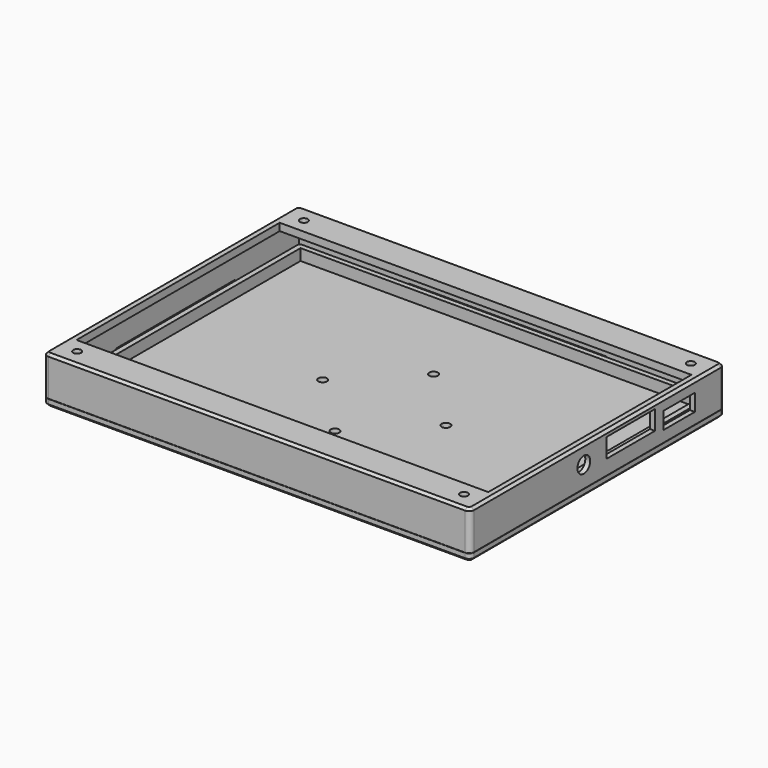
from build123d import *

# Parameters (mm, degrees)
SKETCH003_W                           = 173
SKETCH003_H                           = 129
SKETCH003_W_2                         = 169
SKETCH003_H_2                         = 125
PAD_DEPTH                             = 13
SKETCH004_W                           = 173
SKETCH004_H                           = 129
SKETCH004_R                           = 1.6
SKETCH004_W_2                         = 167
SKETCH004_H_2                         = 103
PAD001_DEPTH                          = 3
SKETCH005_R                           = 3.25
SKETCH005_W                           = 24.5
SKETCH005_H                           = 7.8
SKETCH005_W_2                         = 16
SKETCH005_H_2                         = 6.85
POCKET_DEPTH                          = 86.501
FILLET_R                              = 2
CHAMFER_SIZE                          = 1
PAD002_DEPTH                          = 40
PAD003_DEPTH                          = 30
FILLET003_R                           = 0.2
SKETCH008_W                           = 173
SKETCH008_H                           = 129
PAD004_DEPTH                          = 2.9
FILLET001_R                           = 2
CHAMFER001_SIZE                       = 1
SKETCH009_W                           = 169
SKETCH009_H                           = 124.76
SKETCH009_W_2                         = 162.8
SKETCH009_H_2                         = 118.56
PAD005_DEPTH                          = 4.6
FILLET002_R                           = 2
CHAMFER002_SIZE                       = 1
POCKET001_DEPTH                       = 40.24
POCKET002_DEPTH                       = 30.24
POCKET005_DEPTH                       = 447.863247
POCKET005_DEPTH_BACK                  = 431.863247
POCKET005_LINEARPATTERN_2_DEPTH       = 447.863247
POCKET005_LINEARPATTERN_2_DEPTH_BACK  = 431.863247
POCKET005_LINEARPATTERN_3_DEPTH       = 447.863247
POCKET005_LINEARPATTERN_3_DEPTH_BACK  = 431.863247
POCKET005_LINEARPATTERN_4_DEPTH       = 447.863247
POCKET005_LINEARPATTERN_4_DEPTH_BACK  = 431.863247
POCKET005_LINEARPATTERN_5_DEPTH       = 447.863247
POCKET005_LINEARPATTERN_5_DEPTH_BACK  = 431.863247
POCKET005_LINEARPATTERN_6_DEPTH       = 447.863247
POCKET005_LINEARPATTERN_6_DEPTH_BACK  = 431.863247
POCKET005_LINEARPATTERN_7_DEPTH       = 447.863247
POCKET005_LINEARPATTERN_7_DEPTH_BACK  = 431.863247
POCKET005_LINEARPATTERN_8_DEPTH       = 447.863247
POCKET005_LINEARPATTERN_8_DEPTH_BACK  = 431.863247
POCKET005_LINEARPATTERN_9_DEPTH       = 447.863247
POCKET005_LINEARPATTERN_9_DEPTH_BACK  = 431.863247
POCKET005_LINEARPATTERN_10_DEPTH      = 447.863247
POCKET005_LINEARPATTERN_10_DEPTH_BACK = 431.863247
POCKET005_LINEARPATTERN_11_DEPTH      = 447.863247
POCKET005_LINEARPATTERN_11_DEPTH_BACK = 431.863247
POCKET005_LINEARPATTERN_12_DEPTH      = 447.863247
POCKET005_LINEARPATTERN_12_DEPTH_BACK = 431.863247
LINEARPATTERN001_COUNT                = 15
LINEARPATTERN001_PITCH                = 7.695191
SKETCH019_R                           = 30.75
SKETCH019_R_2                         = 19.25
PAD006_DEPTH                          = 2.9
SKETCH020_R                           = 1.75
POCKET006_DEPTH                       = 7.501
SKETCH021_R                           = 1.75
POCKET007_DEPTH                       = 16.001


with BuildPart() as front:
    # Sketch003 → Pad (new body)
    with BuildSketch(Plane.XY):
        Rectangle(SKETCH003_W, SKETCH003_H)
        Rectangle(SKETCH003_W_2, SKETCH003_H_2, mode=Mode.SUBTRACT)
    extrude(amount=-PAD_DEPTH)

    # Sketch004 → Pad001 (join)
    with BuildSketch(Plane.XY):
        Rectangle(SKETCH004_W, SKETCH004_H)
        with Locations((-78.45, 57.48)):
            Circle(SKETCH004_R, mode=Mode.SUBTRACT)
        with Locations((78.45, 57.48)):
            Circle(SKETCH004_R, mode=Mode.SUBTRACT)
        with Locations((78.45, -57.48)):
            Circle(SKETCH004_R, mode=Mode.SUBTRACT)
        with Locations((-78.45, -57.48)):
            Circle(SKETCH004_R, mode=Mode.SUBTRACT)
        Rectangle(SKETCH004_W_2, SKETCH004_H_2, mode=Mode.SUBTRACT)
    extrude(amount=PAD001_DEPTH)

    # Sketch005 → Pocket (cut, through all)
    with BuildSketch(Plane.YZ):
        with Locations((-6.82, -4.4)):
            Circle(SKETCH005_R)
        with Locations((16.98, -3.1)):
            Rectangle(SKETCH005_W, SKETCH005_H)
        with Locations((41.48, -5.025)):
            Rectangle(SKETCH005_W_2, SKETCH005_H_2)
    extrude(amount=POCKET_DEPTH, mode=Mode.SUBTRACT)

    # Fillet
    fillet_edges = [front.edges().sort_by_distance(p)[0] for p in [
        (-86.5, -64.5, -5),
        (-86.5, 64.5, -5),
        (86.5, 64.5, -5),
        (86.5, -64.5, -5),
    ]]
    fillet(fillet_edges, radius=FILLET_R)

    # Chamfer
    chamfer_edges = [front.edges().sort_by_distance(p)[0] for p in [
        (0, -64.5, 3),
    ]]
    chamfer(chamfer_edges, length=CHAMFER_SIZE)

    # Sketch006 → Pad002 (join, symmetric)
    with BuildSketch(Plane.YZ):
        Polygon((62.5, -9), (62.5, -12), (61, -10.5), align=None)
        Polygon((-62.5, -9), (-62.5, -12), (-61, -10.5), align=None)
    extrude(amount=PAD002_DEPTH, both=True)

    # Sketch007 → Pad003 (join, symmetric)
    with BuildSketch(Plane.XZ):
        Polygon((-84.5, -9), (-84.5, -12), (-83, -10.5), align=None)
        Polygon((84.5, -9), (84.5, -12), (83, -10.5), align=None)
    extrude(amount=PAD003_DEPTH, both=True)

    # Fillet003
    fillet003_edges = [front.edges().sort_by_distance(p)[0] for p in [
        (83, 0, -10.5),
        (0, -61, -10.5),
        (-83, 0, -10.5),
        (0, 61, -10.5),
    ]]
    fillet(fillet003_edges, radius=FILLET003_R)


with BuildPart() as backbase:
    # Sketch008 → Pad004 (new body)
    with BuildSketch(Plane.XY.offset(-16)):
        Rectangle(SKETCH008_W, SKETCH008_H)
    extrude(amount=PAD004_DEPTH)

    # Fillet001
    fillet001_edges = [backbase.edges().sort_by_distance(p)[0] for p in [
        (-86.5, -64.5, -14.55),
        (86.5, -64.5, -14.55),
        (-86.5, 64.5, -14.55),
        (86.5, 64.5, -14.55),
    ]]
    fillet(fillet001_edges, radius=FILLET001_R)

    # Chamfer001
    chamfer001_edges = [backbase.edges().sort_by_distance(p)[0] for p in [
        (0, 64.5, -16),
    ]]
    chamfer(chamfer001_edges, length=CHAMFER001_SIZE)

    # Sketch009 → Pad005 (join)
    with BuildSketch(Plane.XY.offset(-13.1)):
        with Locations((0.12, 0)):
            Rectangle(SKETCH009_W, SKETCH009_H)
        with Locations((0.12, 0)):
            Rectangle(SKETCH009_W_2, SKETCH009_H_2, mode=Mode.SUBTRACT)
    extrude(amount=PAD005_DEPTH)

    # Fillet002
    fillet002_edges = [backbase.edges().sort_by_distance(p)[0] for p in [
        (84.62, 62.38, -10.8),
        (-84.38, 62.38, -10.8),
        (84.62, -62.38, -10.8),
        (-84.38, -62.38, -10.8),
    ]]
    fillet(fillet002_edges, radius=FILLET002_R)

    # Chamfer002
    chamfer002_edges = [backbase.edges().sort_by_distance(p)[0] for p in [
        (0.12, -62.38, -8.5),
    ]]
    chamfer(chamfer002_edges, length=CHAMFER002_SIZE)

    # Sketch010 → Pocket001 (cut, symmetric)
    with BuildSketch(Plane.YZ):
        Polygon((-62.38, -9), (-62.38, -12), (-60.88, -10.5), align=None)
        Polygon((62.38, -9), (62.38, -12), (60.88, -10.5), align=None)
    extrude(amount=POCKET001_DEPTH, both=True, mode=Mode.SUBTRACT)

    # Sketch011 → Pocket002 (cut, symmetric)
    with BuildSketch(Plane.XZ):
        Polygon((84.62, -9), (84.62, -12), (83.12, -10.5), align=None)
        Polygon((-84.38, -9), (-84.38, -12), (-82.88, -10.5), align=None)
    extrude(amount=POCKET002_DEPTH, both=True, mode=Mode.SUBTRACT)


with BuildPart() as obj1:
    # Body003 base: copy of BackBase
    add(backbase.part)

    # Sketch018 → Pocket005 (cut, two sides)
    with BuildSketch(Plane.XY) as pocket005_sk:
        Polygon((-72.768651, 55.790131), (-74.643651, 59.037727), (-78.393651, 59.037727), (-80.268651, 55.790131), (-78.393651, 52.542536), (-74.643651, 52.542536), align=None)
        Polygon((-67.97942, 48.694941), (-66.10442, 51.942536), (-67.97942, 55.190131), (-71.72942, 55.190131), (-73.60442, 51.942536), (-71.72942, 48.694941), align=None)
    pocket005 = extrude(amount=-POCKET005_DEPTH, mode=Mode.SUBTRACT) + extrude(pocket005_sk.sketch, amount=POCKET005_DEPTH_BACK, mode=Mode.SUBTRACT)

    # Sketch018 LinearPattern 2 → Pocket005 LinearPattern 2 (cut, two sides)
    with BuildSketch(Plane(origin=(13.328461, 0, 0), x_dir=(1, 0, 0), z_dir=(0, 0, 1))) as pocket005_linearpattern_2_sk:
        Polygon((-72.768651, 55.790131), (-74.643651, 59.037727), (-78.393651, 59.037727), (-80.268651, 55.790131), (-78.393651, 52.542536), (-74.643651, 52.542536), align=None)
        Polygon((-67.97942, 48.694941), (-66.10442, 51.942536), (-67.97942, 55.190131), (-71.72942, 55.190131), (-73.60442, 51.942536), (-71.72942, 48.694941), align=None)
    pocket005_linearpattern_2 = extrude(amount=-POCKET005_LINEARPATTERN_2_DEPTH, mode=Mode.SUBTRACT) + extrude(pocket005_linearpattern_2_sk.sketch, amount=POCKET005_LINEARPATTERN_2_DEPTH_BACK, mode=Mode.SUBTRACT)

    # Sketch018 LinearPattern 3 → Pocket005 LinearPattern 3 (cut, two sides)
    with BuildSketch(Plane(origin=(26.656922, 0, 0), x_dir=(1, 0, 0), z_dir=(0, 0, 1))) as pocket005_linearpattern_3_sk:
        Polygon((-72.768651, 55.790131), (-74.643651, 59.037727), (-78.393651, 59.037727), (-80.268651, 55.790131), (-78.393651, 52.542536), (-74.643651, 52.542536), align=None)
        Polygon((-67.97942, 48.694941), (-66.10442, 51.942536), (-67.97942, 55.190131), (-71.72942, 55.190131), (-73.60442, 51.942536), (-71.72942, 48.694941), align=None)
    pocket005_linearpattern_3 = extrude(amount=-POCKET005_LINEARPATTERN_3_DEPTH, mode=Mode.SUBTRACT) + extrude(pocket005_linearpattern_3_sk.sketch, amount=POCKET005_LINEARPATTERN_3_DEPTH_BACK, mode=Mode.SUBTRACT)

    # Sketch018 LinearPattern 4 → Pocket005 LinearPattern 4 (cut, two sides)
    with BuildSketch(Plane(origin=(39.985383, 0, 0), x_dir=(1, 0, 0), z_dir=(0, 0, 1))) as pocket005_linearpattern_4_sk:
        Polygon((-72.768651, 55.790131), (-74.643651, 59.037727), (-78.393651, 59.037727), (-80.268651, 55.790131), (-78.393651, 52.542536), (-74.643651, 52.542536), align=None)
        Polygon((-67.97942, 48.694941), (-66.10442, 51.942536), (-67.97942, 55.190131), (-71.72942, 55.190131), (-73.60442, 51.942536), (-71.72942, 48.694941), align=None)
    pocket005_linearpattern_4 = extrude(amount=-POCKET005_LINEARPATTERN_4_DEPTH, mode=Mode.SUBTRACT) + extrude(pocket005_linearpattern_4_sk.sketch, amount=POCKET005_LINEARPATTERN_4_DEPTH_BACK, mode=Mode.SUBTRACT)

    # Sketch018 LinearPattern 5 → Pocket005 LinearPattern 5 (cut, two sides)
    with BuildSketch(Plane(origin=(53.313844, 0, 0), x_dir=(1, 0, 0), z_dir=(0, 0, 1))) as pocket005_linearpattern_5_sk:
        Polygon((-72.768651, 55.790131), (-74.643651, 59.037727), (-78.393651, 59.037727), (-80.268651, 55.790131), (-78.393651, 52.542536), (-74.643651, 52.542536), align=None)
        Polygon((-67.97942, 48.694941), (-66.10442, 51.942536), (-67.97942, 55.190131), (-71.72942, 55.190131), (-73.60442, 51.942536), (-71.72942, 48.694941), align=None)
    pocket005_linearpattern_5 = extrude(amount=-POCKET005_LINEARPATTERN_5_DEPTH, mode=Mode.SUBTRACT) + extrude(pocket005_linearpattern_5_sk.sketch, amount=POCKET005_LINEARPATTERN_5_DEPTH_BACK, mode=Mode.SUBTRACT)

    # Sketch018 LinearPattern 6 → Pocket005 LinearPattern 6 (cut, two sides)
    with BuildSketch(Plane(origin=(66.642305, 0, 0), x_dir=(1, 0, 0), z_dir=(0, 0, 1))) as pocket005_linearpattern_6_sk:
        Polygon((-72.768651, 55.790131), (-74.643651, 59.037727), (-78.393651, 59.037727), (-80.268651, 55.790131), (-78.393651, 52.542536), (-74.643651, 52.542536), align=None)
        Polygon((-67.97942, 48.694941), (-66.10442, 51.942536), (-67.97942, 55.190131), (-71.72942, 55.190131), (-73.60442, 51.942536), (-71.72942, 48.694941), align=None)
    pocket005_linearpattern_6 = extrude(amount=-POCKET005_LINEARPATTERN_6_DEPTH, mode=Mode.SUBTRACT) + extrude(pocket005_linearpattern_6_sk.sketch, amount=POCKET005_LINEARPATTERN_6_DEPTH_BACK, mode=Mode.SUBTRACT)

    # Sketch018 LinearPattern 7 → Pocket005 LinearPattern 7 (cut, two sides)
    with BuildSketch(Plane(origin=(79.970766, 0, 0), x_dir=(1, 0, 0), z_dir=(0, 0, 1))) as pocket005_linearpattern_7_sk:
        Polygon((-72.768651, 55.790131), (-74.643651, 59.037727), (-78.393651, 59.037727), (-80.268651, 55.790131), (-78.393651, 52.542536), (-74.643651, 52.542536), align=None)
        Polygon((-67.97942, 48.694941), (-66.10442, 51.942536), (-67.97942, 55.190131), (-71.72942, 55.190131), (-73.60442, 51.942536), (-71.72942, 48.694941), align=None)
    pocket005_linearpattern_7 = extrude(amount=-POCKET005_LINEARPATTERN_7_DEPTH, mode=Mode.SUBTRACT) + extrude(pocket005_linearpattern_7_sk.sketch, amount=POCKET005_LINEARPATTERN_7_DEPTH_BACK, mode=Mode.SUBTRACT)

    # Sketch018 LinearPattern 8 → Pocket005 LinearPattern 8 (cut, two sides)
    with BuildSketch(Plane(origin=(93.299227, 0, 0), x_dir=(1, 0, 0), z_dir=(0, 0, 1))) as pocket005_linearpattern_8_sk:
        Polygon((-72.768651, 55.790131), (-74.643651, 59.037727), (-78.393651, 59.037727), (-80.268651, 55.790131), (-78.393651, 52.542536), (-74.643651, 52.542536), align=None)
        Polygon((-67.97942, 48.694941), (-66.10442, 51.942536), (-67.97942, 55.190131), (-71.72942, 55.190131), (-73.60442, 51.942536), (-71.72942, 48.694941), align=None)
    pocket005_linearpattern_8 = extrude(amount=-POCKET005_LINEARPATTERN_8_DEPTH, mode=Mode.SUBTRACT) + extrude(pocket005_linearpattern_8_sk.sketch, amount=POCKET005_LINEARPATTERN_8_DEPTH_BACK, mode=Mode.SUBTRACT)

    # Sketch018 LinearPattern 9 → Pocket005 LinearPattern 9 (cut, two sides)
    with BuildSketch(Plane(origin=(106.627688, 0, 0), x_dir=(1, 0, 0), z_dir=(0, 0, 1))) as pocket005_linearpattern_9_sk:
        Polygon((-72.768651, 55.790131), (-74.643651, 59.037727), (-78.393651, 59.037727), (-80.268651, 55.790131), (-78.393651, 52.542536), (-74.643651, 52.542536), align=None)
        Polygon((-67.97942, 48.694941), (-66.10442, 51.942536), (-67.97942, 55.190131), (-71.72942, 55.190131), (-73.60442, 51.942536), (-71.72942, 48.694941), align=None)
    pocket005_linearpattern_9 = extrude(amount=-POCKET005_LINEARPATTERN_9_DEPTH, mode=Mode.SUBTRACT) + extrude(pocket005_linearpattern_9_sk.sketch, amount=POCKET005_LINEARPATTERN_9_DEPTH_BACK, mode=Mode.SUBTRACT)

    # Sketch018 LinearPattern 10 → Pocket005 LinearPattern 10 (cut, two sides)
    with BuildSketch(Plane(origin=(119.956149, 0, 0), x_dir=(1, 0, 0), z_dir=(0, 0, 1))) as pocket005_linearpattern_10_sk:
        Polygon((-72.768651, 55.790131), (-74.643651, 59.037727), (-78.393651, 59.037727), (-80.268651, 55.790131), (-78.393651, 52.542536), (-74.643651, 52.542536), align=None)
        Polygon((-67.97942, 48.694941), (-66.10442, 51.942536), (-67.97942, 55.190131), (-71.72942, 55.190131), (-73.60442, 51.942536), (-71.72942, 48.694941), align=None)
    pocket005_linearpattern_10 = extrude(amount=-POCKET005_LINEARPATTERN_10_DEPTH, mode=Mode.SUBTRACT) + extrude(pocket005_linearpattern_10_sk.sketch, amount=POCKET005_LINEARPATTERN_10_DEPTH_BACK, mode=Mode.SUBTRACT)

    # Sketch018 LinearPattern 11 → Pocket005 LinearPattern 11 (cut, two sides)
    with BuildSketch(Plane(origin=(133.28461, 0, 0), x_dir=(1, 0, 0), z_dir=(0, 0, 1))) as pocket005_linearpattern_11_sk:
        Polygon((-72.768651, 55.790131), (-74.643651, 59.037727), (-78.393651, 59.037727), (-80.268651, 55.790131), (-78.393651, 52.542536), (-74.643651, 52.542536), align=None)
        Polygon((-67.97942, 48.694941), (-66.10442, 51.942536), (-67.97942, 55.190131), (-71.72942, 55.190131), (-73.60442, 51.942536), (-71.72942, 48.694941), align=None)
    pocket005_linearpattern_11 = extrude(amount=-POCKET005_LINEARPATTERN_11_DEPTH, mode=Mode.SUBTRACT) + extrude(pocket005_linearpattern_11_sk.sketch, amount=POCKET005_LINEARPATTERN_11_DEPTH_BACK, mode=Mode.SUBTRACT)

    # Sketch018 LinearPattern 12 → Pocket005 LinearPattern 12 (cut, two sides)
    with BuildSketch(Plane(origin=(146.613071, 0, 0), x_dir=(1, 0, 0), z_dir=(0, 0, 1))) as pocket005_linearpattern_12_sk:
        Polygon((-72.768651, 55.790131), (-74.643651, 59.037727), (-78.393651, 59.037727), (-80.268651, 55.790131), (-78.393651, 52.542536), (-74.643651, 52.542536), align=None)
        Polygon((-67.97942, 48.694941), (-66.10442, 51.942536), (-67.97942, 55.190131), (-71.72942, 55.190131), (-73.60442, 51.942536), (-71.72942, 48.694941), align=None)
    pocket005_linearpattern_12 = extrude(amount=-POCKET005_LINEARPATTERN_12_DEPTH, mode=Mode.SUBTRACT) + extrude(pocket005_linearpattern_12_sk.sketch, amount=POCKET005_LINEARPATTERN_12_DEPTH_BACK, mode=Mode.SUBTRACT)

    # LinearPattern001: Pocket005, Pocket005 LinearPattern 2, Pocket005 LinearPattern 3, Pocket005 LinearPattern 4, Pocket005 LinearPattern 5, Pocket005 LinearPattern 6, Pocket005 LinearPattern 7, Pocket005 LinearPattern 8, Pocket005 LinearPattern 9, Pocket005 LinearPattern 10, Pocket005 LinearPattern 11, Pocket005 LinearPattern 12 ×15
    with Locations(*[(0, -i * LINEARPATTERN001_PITCH, 0) for i in range(1, LINEARPATTERN001_COUNT)]):
        add(pocket005, mode=Mode.SUBTRACT)
        add(pocket005_linearpattern_2, mode=Mode.SUBTRACT)
        add(pocket005_linearpattern_3, mode=Mode.SUBTRACT)
        add(pocket005_linearpattern_4, mode=Mode.SUBTRACT)
        add(pocket005_linearpattern_5, mode=Mode.SUBTRACT)
        add(pocket005_linearpattern_6, mode=Mode.SUBTRACT)
        add(pocket005_linearpattern_7, mode=Mode.SUBTRACT)
        add(pocket005_linearpattern_8, mode=Mode.SUBTRACT)
        add(pocket005_linearpattern_9, mode=Mode.SUBTRACT)
        add(pocket005_linearpattern_10, mode=Mode.SUBTRACT)
        add(pocket005_linearpattern_11, mode=Mode.SUBTRACT)
        add(pocket005_linearpattern_12, mode=Mode.SUBTRACT)

    # Sketch019 → Pad006 (join)
    with BuildSketch(Plane.XY.offset(-16)):
        with Locations((0.12, 0)):
            Circle(SKETCH019_R)
        with Locations((0.12, 0)):
            Circle(SKETCH019_R_2, mode=Mode.SUBTRACT)
    extrude(amount=PAD006_DEPTH)

    # Sketch020 → Pocket006 (cut, through all)
    with BuildSketch(Plane.XY.offset(-16)):
        with Locations((0.12, 25)):
            Circle(SKETCH020_R)
        with Locations((25.12, 0)):
            Circle(SKETCH020_R)
        with Locations((0.12, -25)):
            Circle(SKETCH020_R)
        with Locations((-24.88, 0)):
            Circle(SKETCH020_R)
    extrude(amount=POCKET006_DEPTH, mode=Mode.SUBTRACT)


with BuildPart() as obj2:
    # Body004 base: copy of BackBase
    add(backbase.part)

    # Sketch021 → Pocket007 (cut, through all)
    with BuildSketch(Plane.XY):
        with Locations((0.12, 25)):
            Circle(SKETCH021_R)
        with Locations((25.12, 0)):
            Circle(SKETCH021_R)
        with Locations((0.12, -25)):
            Circle(SKETCH021_R)
        with Locations((-24.88, 0)):
            Circle(SKETCH021_R)
    extrude(amount=-POCKET007_DEPTH, mode=Mode.SUBTRACT)


solid = Compound([front.part, obj1.part, obj2.part])
